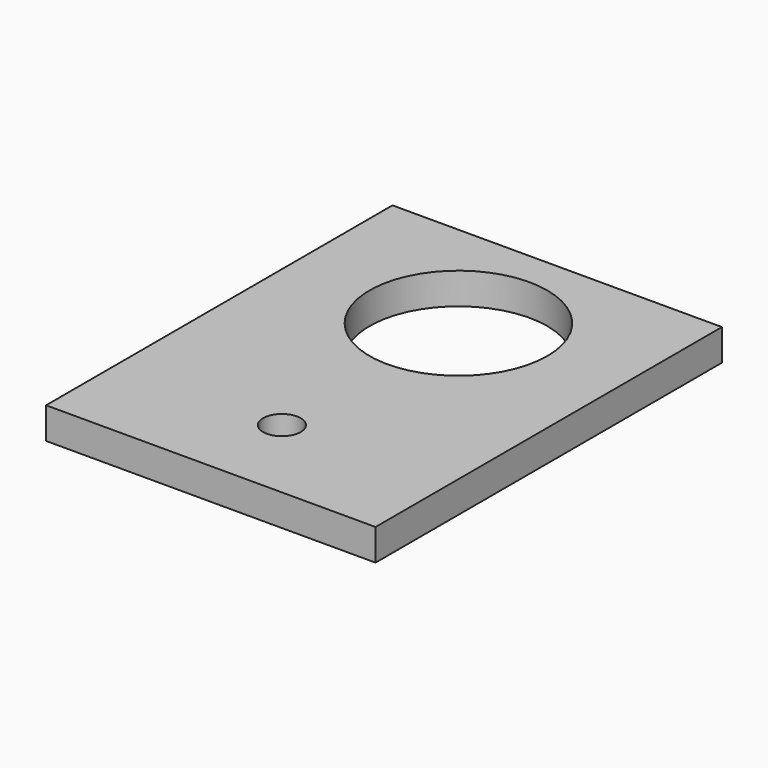
from build123d import *

# Parameters (mm, degrees)
F0_W     = 55.6
F0_H     = 43.07
F0_R     = 15
F0_H_2   = 30
F0_R_2   = 3.175
F1_DEPTH = 5.3


with BuildPart() as f1:
    # F0 (on Top) → F1 (new body)
    with BuildSketch(Plane.XY):
        Rectangle(F0_W, F0_H)
        with Locations((0, 0.7)):
            Circle(F0_R, mode=Mode.SUBTRACT)
        with Locations((0, -36.535)):
            Rectangle(F0_W, F0_H_2)
        with Locations((0, -36.535)):
            Circle(F0_R_2, mode=Mode.SUBTRACT)
    extrude(amount=F1_DEPTH)


solid = f1.part
